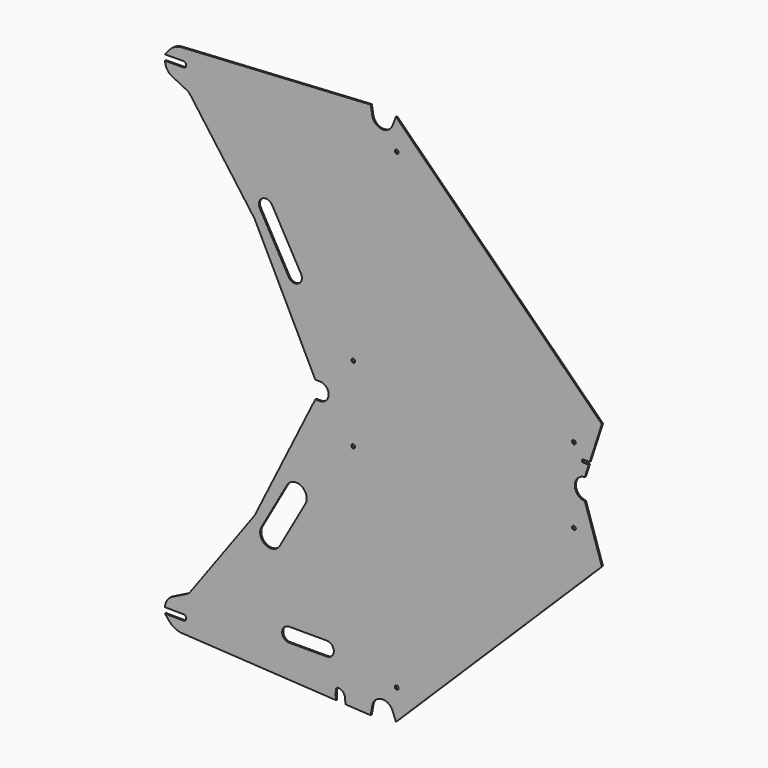
from build123d import *

# Parameters (mm, degrees)
F0_R     = 4
F1_DEPTH = 3


with BuildPart() as f1:
    # F0 (on Front) → F1 (new body)
    with BuildSketch(Plane.XZ):
        with BuildLine():
            ThreePointArc((-42.428788, 22.197763), (-22.393428, 40.636528), (0.736568, 26.269656))
            Line((0.736568, 26.269656), (7.82161, 7.734496))
            Line((7.82161, 7.734496), (445.831745, 440.866256))
            Line((445.831745, 440.866256), (409.571118, 551.809463))
            ThreePointArc((409.571118, 551.809463), (403.393924, 553.012383), (397.791506, 555.879027))
            Line((397.791506, 555.879027), (-153.711431, 555.879027))
            Line((-153.711431, 555.879027), (-163.711431, 555.879027))
            Line((-163.711431, 555.879027), (-176.433934, 530.299822))
            Line((-176.433934, 530.299822), (-292.672837, 296.595913))
            Line((-292.672837, 296.595913), (-429.805557, 108.635613))
            ThreePointArc((-429.805557, 108.635613), (-433.055197, 105.145969), (-437.038546, 102.524765))
            Line((-437.038546, 102.524765), (-467.979575, 87.098137))
            ThreePointArc((-467.979575, 87.098137), (-479.031049, 77.063624), (-483.216559, 62.73505))
            Line((-483.216559, 62.73505), (-444.218322, 62.364245))
            ThreePointArc((-444.218322, 62.364245), (-439.992581, 60.566627), (-438.27564, 56.307469))
            ThreePointArc((-438.27564, 56.307469), (-440.073258, 52.081729), (-444.332415, 50.364787))
            Line((-444.332415, 50.364787), (-483.330653, 50.735592))
            Line((-483.330653, 50.735592), (-473.742625, 39.200006))
            ThreePointArc((-473.742625, 39.200006), (-462.016917, 29.862605), (-447.542263, 25.968544))
            Line((-447.542263, 25.968544), (-119.640526, 6.942116))
            ThreePointArc((-119.640526, 6.942116), (-120.273154, 17.038104), (-119.882564, 27.146349))
            ThreePointArc((-119.882564, 27.146349), (-118.168468, 30.486744), (-114.612815, 31.692435))
            Line((-114.612815, 31.692435), (-99.287074, 30.803162))
            ThreePointArc((-99.287074, 30.803162), (-100.086144, 23.806602), (-100.266839, 16.766878))
            ThreePointArc((-100.266839, 16.766878), (-99.974524, 11.247746), (-99.30184, 5.761968))
            Line((-99.30184, 5.761968), (-45.922757, 2.664658))
            Line((-45.922757, 2.664658), (-42.428788, 22.197763))
        make_face()
        with BuildLine():
            ThreePointArc((-219.185589, 82.205842), (-234.185589, 97.205842), (-219.185589, 112.205842))
            Line((-219.185589, 112.205842), (-139.185589, 112.205842))
            ThreePointArc((-139.185589, 112.205842), (-124.185589, 97.205842), (-139.185589, 82.205842))
            Line((-139.185589, 82.205842), (-219.185589, 82.205842))
        make_face(mode=Mode.SUBTRACT)
        with BuildLine():
            ThreePointArc((-238.884885, 257.620199), (-269.539195, 249.087128), (-278.072266, 279.741438))
            Line((-278.072266, 279.741438), (-223.998126, 375.532812))
            ThreePointArc((-223.998126, 375.532812), (-193.343817, 384.065883), (-184.810746, 353.411573))
            Line((-184.810746, 353.411573), (-238.884885, 257.620199))
        make_face(mode=Mode.SUBTRACT)
        with Locations((-83.001788, 494.079027)):
            Circle(F0_R, mode=Mode.SUBTRACT)
        with Locations((9.507399, 72.687717)):
            Circle(F0_R, mode=Mode.SUBTRACT)
        with Locations((386.357424, 494.079027)):
            Circle(F0_R, mode=Mode.SUBTRACT)
        with BuildLine():
            ThreePointArc((-114.612815, 31.692435), (-104.514185, 27.041692), (-100.266839, 16.766878))
            ThreePointArc((-100.266839, 16.766878), (-100.086144, 23.806602), (-99.287074, 30.803162))
            Line((-99.287074, 30.803162), (-114.612815, 31.692435))
        make_face()
        with BuildLine():
            Line((-153.711431, 555.879027), (397.791506, 555.879027))
            ThreePointArc((397.791506, 555.879027), (388.241023, 574.279027), (397.791506, 592.679027))
            Line((397.791506, 592.679027), (-153.711431, 592.679027))
            ThreePointArc((-153.711431, 592.679027), (-135.311431, 574.279027), (-153.711431, 555.879027))
        make_face()
        with BuildLine():
            Line((-153.711431, 592.679027), (397.791506, 592.679027))
            ThreePointArc((397.791506, 592.679027), (403.393924, 595.545671), (409.571118, 596.748591))
            Line((409.571118, 596.748591), (418.046209, 622.679027))
            Line((418.046209, 622.679027), (406.046209, 622.679027))
            ThreePointArc((406.046209, 622.679027), (403.924889, 623.557707), (403.046209, 625.679027))
            ThreePointArc((403.046209, 625.679027), (403.924889, 627.800347), (406.046209, 628.679027))
            Line((406.046209, 628.679027), (420.007247, 628.679027))
            Line((420.007247, 628.679027), (445.831745, 707.691799))
            Line((445.831745, 707.691799), (7.82161, 1140.823559))
            Line((7.82161, 1140.823559), (0.736568, 1122.288398))
            ThreePointArc((0.736568, 1122.288398), (-22.393428, 1107.921526), (-42.428788, 1126.360291))
            Line((-42.428788, 1126.360291), (-45.922757, 1145.893396))
            Line((-45.922757, 1145.893396), (-447.542263, 1122.58951))
            ThreePointArc((-447.542263, 1122.58951), (-462.016917, 1118.695449), (-473.742625, 1109.358048))
            Line((-473.742625, 1109.358048), (-483.330653, 1097.822462))
            Line((-483.330653, 1097.822462), (-444.332415, 1098.193267))
            ThreePointArc((-444.332415, 1098.193267), (-440.073258, 1096.476326), (-438.27564, 1092.250585))
            ThreePointArc((-438.27564, 1092.250585), (-439.992581, 1087.991428), (-444.218322, 1086.19381))
            Line((-444.218322, 1086.19381), (-483.216559, 1085.823005))
            ThreePointArc((-483.216559, 1085.823005), (-479.031049, 1071.494431), (-467.979575, 1061.459917))
            Line((-467.979575, 1061.459917), (-437.038546, 1046.033289))
            ThreePointArc((-437.038546, 1046.033289), (-433.055197, 1043.412085), (-429.805557, 1039.922441))
            Line((-429.805557, 1039.922441), (-292.672837, 851.962142))
            Line((-292.672837, 851.962142), (-178.632735, 622.679027))
            Line((-178.632735, 622.679027), (-176.433934, 618.258232))
            Line((-176.433934, 618.258232), (-163.711431, 592.679027))
            Line((-163.711431, 592.679027), (-153.711431, 592.679027))
        make_face()
        with Locations((-83.001788, 654.479027)):
            Circle(F0_R, mode=Mode.SUBTRACT)
        with BuildLine():
            ThreePointArc((-281.759139, 875.347847), (-276.070425, 895.784053), (-255.634219, 890.095339))
            Line((-255.634219, 890.095339), (-194.186333, 781.241505))
            ThreePointArc((-194.186333, 781.241505), (-199.875047, 760.805298), (-220.311253, 766.494012))
            Line((-220.311253, 766.494012), (-281.759139, 875.347847))
        make_face(mode=Mode.SUBTRACT)
        with Locations((386.357424, 654.479027)):
            Circle(F0_R, mode=Mode.SUBTRACT)
        with Locations((9.507399, 1075.870338)):
            Circle(F0_R, mode=Mode.SUBTRACT)
    extrude(amount=F1_DEPTH)


solid = f1.part
